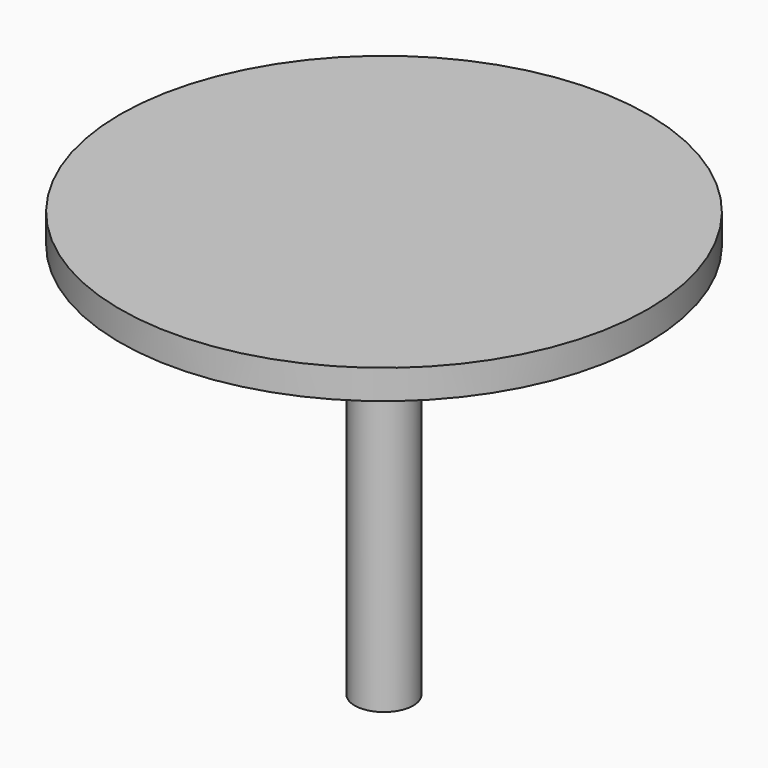
from build123d import *

# Parameters (mm, degrees)
F0_R     = 457.2
F1_DEPTH = 50.8
F2_R     = 50.8
F3_DEPTH = 736.6


with BuildPart() as f1:
    # F0 (on Top) → F1 (new body)
    with BuildSketch(Plane.XY):
        Circle(F0_R)
    extrude(amount=-F1_DEPTH)

    # F2 (on face) → F3 (join)
    with BuildSketch(Plane.XY):
        Circle(F2_R)
    extrude(amount=-F3_DEPTH)


solid = f1.part
